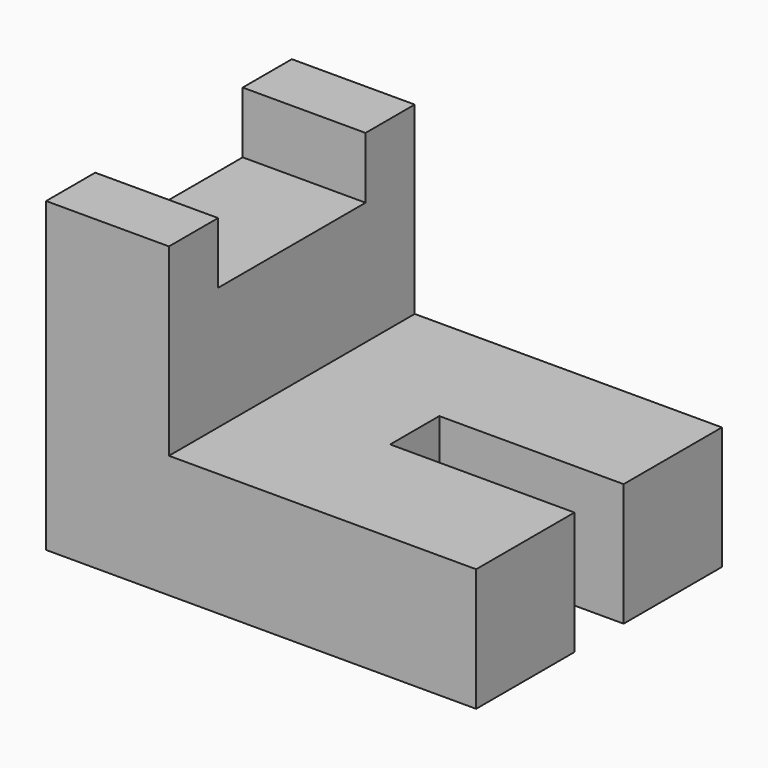
from build123d import *

# Parameters (mm, degrees)
F2_DEPTH = 31.75
F1_W     = 19.05
F1_H     = 6.35
F3_DEPTH = 27.686
F4_W     = 19.05
F4_H     = 6.35
F5_DEPTH = 72.3138


with BuildPart() as f2:
    # F0 (on Front) → F2 (new body)
    with BuildSketch(Plane.XZ):
        Polygon((0, 31.75), (0, 0), (44.45, 0), (44.45, 12.7), (12.7, 12.7), (12.7, 31.75), align=None)
    extrude(amount=F2_DEPTH)

    # F1 (on Right) → F3 (cut)
    with BuildSketch(Plane.YZ):
        with Locations((-15.875, 28.575)):
            Rectangle(F1_W, F1_H)
    extrude(amount=F3_DEPTH, mode=Mode.SUBTRACT)

    # F4 (on Top) → F5 (cut)
    with BuildSketch(Plane.XY):
        with Locations((34.925, -15.875)):
            Rectangle(F4_W, F4_H)
    extrude(amount=F5_DEPTH, mode=Mode.SUBTRACT)


solid = f2.part
